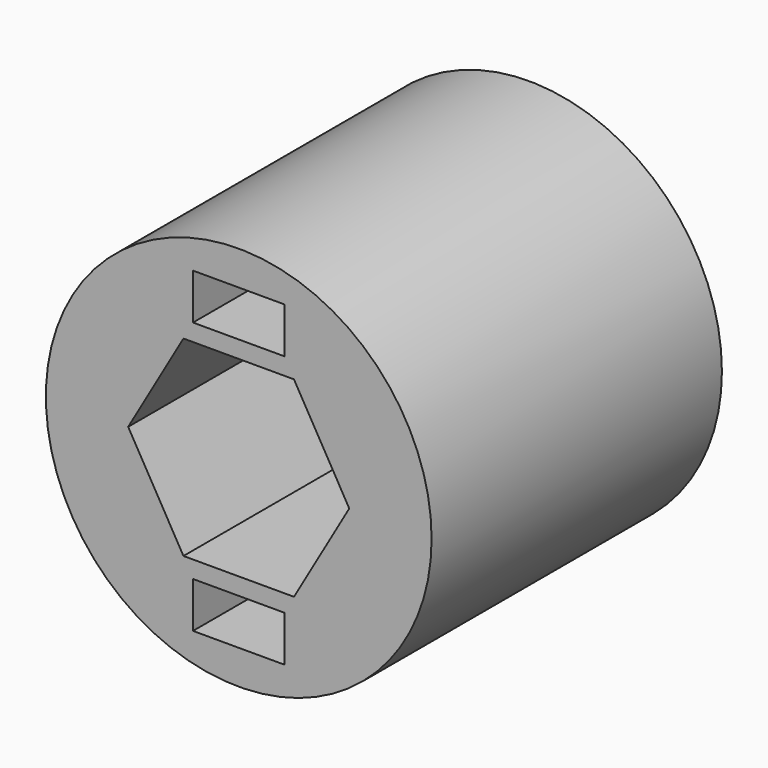
from build123d import *

# Parameters (mm, degrees)
F0_R     = 6.75
F0_W     = 3.2004
F0_H     = 1.6002
F0_W_2   = 3.2
F0_H_2   = 1.6
F1_DEPTH = 12.7


with BuildPart() as f1:
    # F0 (on Front) → F1 (new body)
    with BuildSketch(Plane.XZ):
        Circle(F0_R)
        with Locations((0, -4.7501)):
            Rectangle(F0_W, F0_H, mode=Mode.SUBTRACT)
        Polygon((1.934123, 3.35), (3.868247, 0), (1.934123, -3.35), (-1.934123, -3.35), (-3.868247, 0), (-1.934123, 3.35), (0, 3.35), align=None, mode=Mode.SUBTRACT)
        with Locations((0, 4.75)):
            Rectangle(F0_W_2, F0_H_2, mode=Mode.SUBTRACT)
    extrude(amount=F1_DEPTH)


with BuildPart() as f2_1:
    # F2: copy of F1
    add(f1.part)


solid = Compound([f1.part, f2_1.part])
